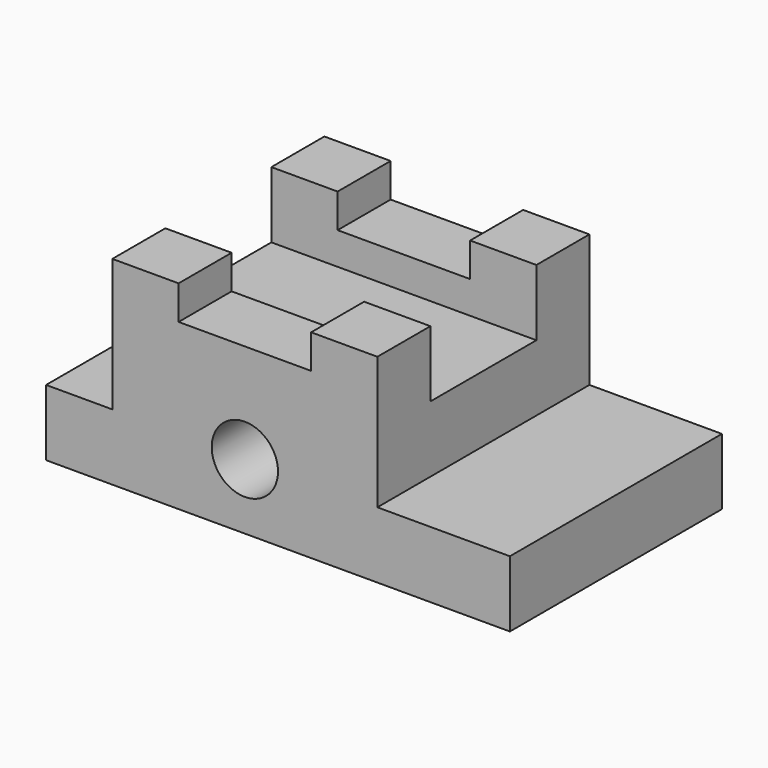
from build123d import *

# Parameters (mm, degrees)
F1_DEPTH = 50.8
F2_R     = 6.35
F3_DEPTH = 50.801
F4_W     = 25.4
F4_H     = 12.7
F5_DEPTH = 88.901


with BuildPart() as f1:
    # F0 (on Front) → F1 (new body)
    with BuildSketch(Plane.XZ):
        Polygon((-76.2, -4.721795), (-88.9, -4.721795), (-88.9, -17.421795), (0, -17.421795), (0, -4.721795), (-25.4, -4.721795), (-25.4, 20.678205), (-38.1, 20.678205), (-38.1, 14.165386), (-63.5, 14.165386), (-63.5, 20.678205), (-76.2, 20.678205), align=None)
    extrude(amount=F1_DEPTH)

    # F2 (on Front) → F3 (cut, through all)
    with BuildSketch(Plane.XZ):
        with Locations((-50.8, -4.884614)):
            Circle(F2_R)
    extrude(amount=F3_DEPTH, mode=Mode.SUBTRACT)

    # F4 (on Right) → F5 (cut, through all)
    with BuildSketch(Plane.YZ):
        with Locations((-25.4, 14.328205)):
            Rectangle(F4_W, F4_H)
    extrude(amount=-F5_DEPTH, mode=Mode.SUBTRACT)


solid = f1.part
